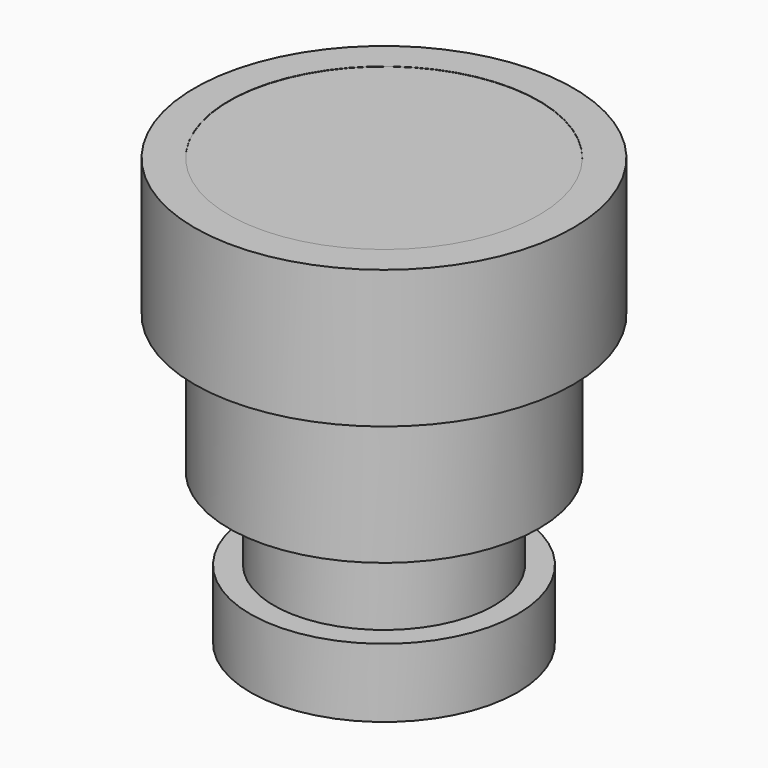
from build123d import *

# Parameters (mm, degrees)
F0_R          = 14.2875
F0_R_2        = 12.319
F0_R_3        = 10.16
F1_DEPTH      = 25.4254
F0_R_4        = 17.4625
F2_DEPTH      = 12.7
F2_DEPTH_BACK = 0.0254
F3_START      = -25.4
F3_DEPTH      = 12.7
F4_START      = -33.02
F4_DEPTH      = 6.35


with BuildPart() as f1:
    # F0 (on Top) → F1 (new body)
    with BuildSketch(Plane.XY):
        Circle(F0_R)
        Circle(F0_R_2, mode=Mode.SUBTRACT)
        Circle(F0_R_2)
        Circle(F0_R_3, mode=Mode.SUBTRACT)
        Circle(F0_R_3)
    extrude(amount=-F1_DEPTH)

    # F0 (on Top) → F2 (join, two sides)
    with BuildSketch(Plane.XY) as f2_sk:
        Circle(F0_R_4)
        Circle(F0_R, mode=Mode.SUBTRACT)
    extrude(amount=-F2_DEPTH)
    extrude(f2_sk.sketch, amount=F2_DEPTH_BACK)

    # F0 (on Top) → F3 (join)
    with BuildSketch(Plane.XY.offset(F3_START)):
        Circle(F0_R_3)
    extrude(amount=-F3_DEPTH)

    # F0 (on Top) → F4 (join)
    with BuildSketch(Plane.XY.offset(F4_START)):
        Circle(F0_R_2)
        Circle(F0_R_3, mode=Mode.SUBTRACT)
    extrude(amount=-F4_DEPTH)


solid = f1.part
